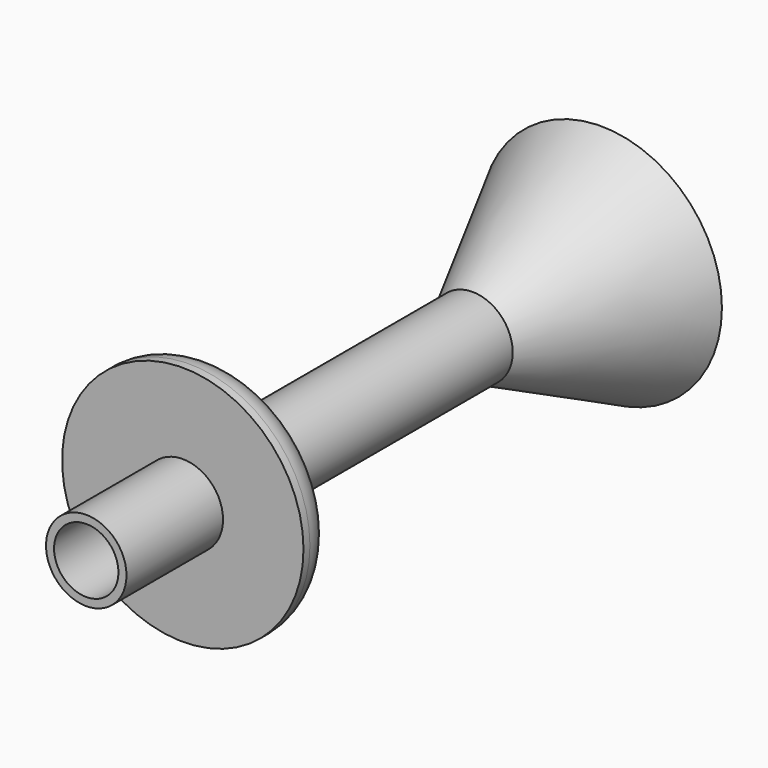
from build123d import *

# Parameters (mm, degrees)
SKETCH001_R  = 4
POCKET_DEPTH = 80.001
CHAMFER_SIZE = 10
FILLET_R     = 4
FILLET001_R  = 2


with BuildPart() as part:
    # Sketch → Revolution (revolve)
    with BuildSketch(Plane.XY):
        Polygon((5, 60), (5, 20), (15, 20), (15, 15), (5, 15), (5, 0), (0, 0), (0, 80), (15, 80), align=None)
    revolve(axis=Axis((0, 0, 0), (0, 1, 0)))

    # Sketch001 (on Face7 of Revolution) → Pocket (cut, through all)
    with BuildSketch(Plane(origin=(0, 80, 0), x_dir=(-1, 0, 0), z_dir=(0, 1, 0))):
        Circle(SKETCH001_R)
    extrude(amount=-POCKET_DEPTH, mode=Mode.SUBTRACT)

    # Chamfer
    chamfer_edges = [part.edges().sort_by_distance(p)[0] for p in [
        (4, 80, 0),
    ]]
    chamfer(chamfer_edges, length=CHAMFER_SIZE)

    # Fillet
    fillet_edges = [part.edges().sort_by_distance(p)[0] for p in [
        (-15, 20, 0),
    ]]
    fillet(fillet_edges, radius=FILLET_R)

    # Fillet001
    fillet001_edges = [part.edges().sort_by_distance(p)[0] for p in [
        (14, 80, 0),
    ]]
    fillet(fillet001_edges, radius=FILLET001_R)


solid = part.part
